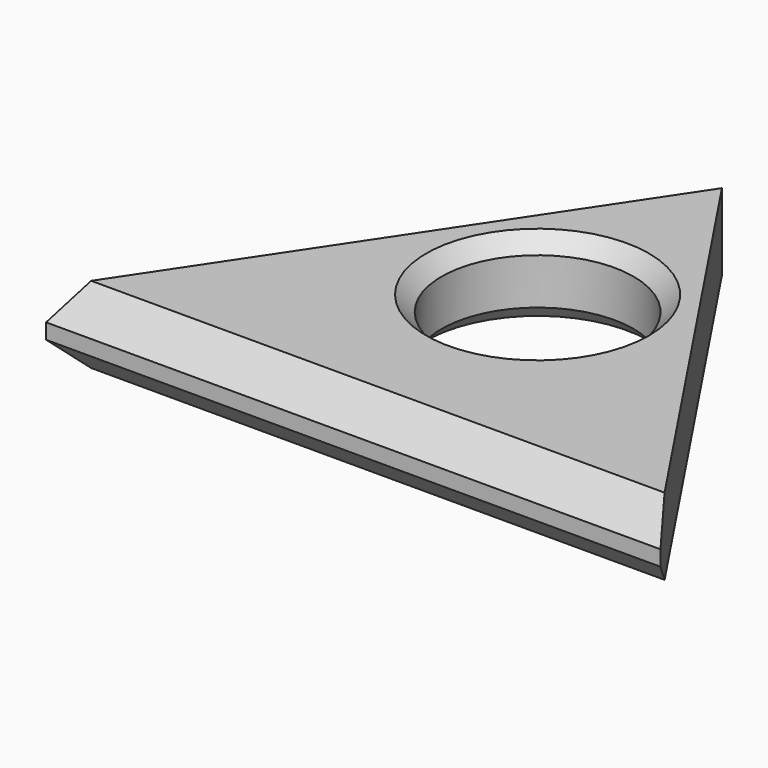
from build123d import *

# Parameters (mm, degrees)
F0_R     = 15.875
F1_DEPTH = 12.7
F2_SIZE  = 5.08
F3_SIZE  = 2.54


with BuildPart() as f1:
    # F0 (on Top) → F1 (new body)
    with BuildSketch(Plane.XY):
        Polygon((0, 76.2), (-50.8, 0), (50.8, 0), align=None)
        with Locations((0, 38.1)):
            Circle(F0_R, mode=Mode.SUBTRACT)
    extrude(amount=F1_DEPTH)

    # F2
    f2_edges = [f1.edges().sort_by_distance(p)[0] for p in [
        (0, 0, 12.7),
        (0, 0, 0),
    ]]
    chamfer(f2_edges, length=F2_SIZE)

    # F3
    f3_edges = [f1.edges().sort_by_distance(p)[0] for p in [
        (-15.875, 38.1, 0),
        (-15.875, 38.1, 12.7),
    ]]
    chamfer(f3_edges, length=F3_SIZE)


solid = f1.part
